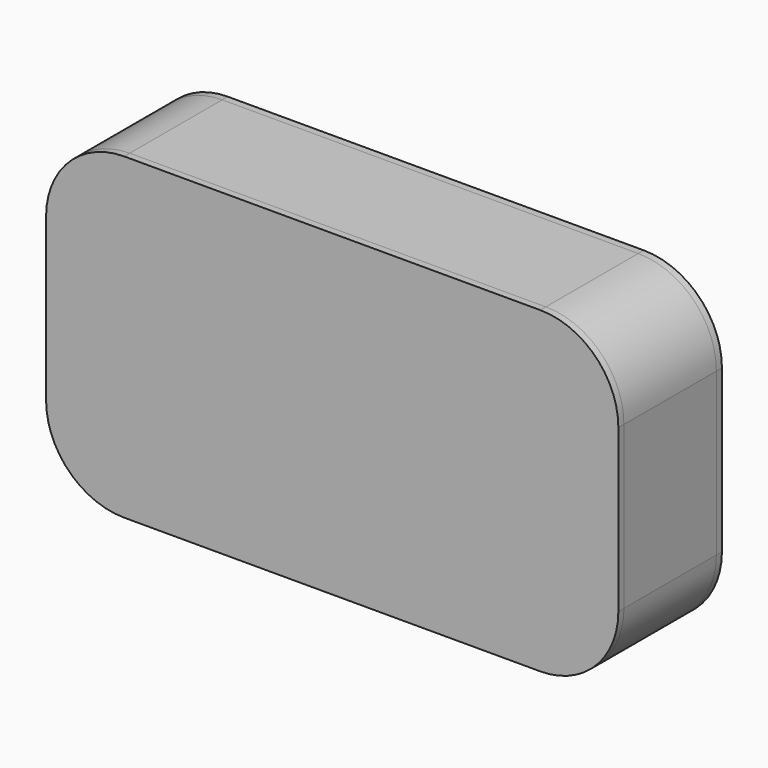
from build123d import *

# Parameters (mm, degrees)
F0_W     = 180
F0_H     = 130
F0_W_2   = 174
F0_H_2   = 124
F1_DEPTH = 50
F2_DEPTH = 3
F3_DEPTH = 3
F4_DEPTH = 50
F5_W     = 174
F5_H     = 124
F6_DEPTH = 3
F7_DEPTH = 3


with BuildPart() as f1:
    # F0 (on Front) → F1 (new body)
    with BuildSketch(Plane.XZ):
        with BuildLine():
            ThreePointArc((-90, 68), (-113.3345237792, 58.3345237792), (-123, 35))
            Line((-123, 35), (-123, -35))
            ThreePointArc((-123, -35), (-113.3345237792, -58.3345237792), (-90, -68))
            Line((-90, -68), (90, -68))
            ThreePointArc((90, -68), (113.3345237792, -58.3345237792), (123, -35))
            Line((123, -35), (123, 35))
            ThreePointArc((123, 35), (113.3345237792, 58.3345237792), (90, 68))
            Line((90, 68), (-90, 68))
        make_face()
        with BuildLine():
            Line((-90, 65), (90, 65))
            ThreePointArc((90, 65), (111.2132034356, 56.2132034356), (120, 35))
            Line((120, 35), (120, -35))
            ThreePointArc((120, -35), (111.2132034356, -56.2132034356), (90, -65))
            Line((90, -65), (-90, -65))
            ThreePointArc((-90, -65), (-111.2132034356, -56.2132034356), (-120, -35))
            Line((-120, -35), (-120, 35))
            ThreePointArc((-120, 35), (-111.2132034356, 56.2132034356), (-90, 65))
        make_face(mode=Mode.SUBTRACT)
        Rectangle(F0_W, F0_H)
        Rectangle(F0_W_2, F0_H_2, mode=Mode.SUBTRACT)
    extrude(amount=-F1_DEPTH)


with BuildPart() as f2:
    # F0 (on Front) → F2 (new body)
    with BuildSketch(Plane.XZ):
        Rectangle(F0_W_2, F0_H_2)
    extrude(amount=-F2_DEPTH)


with BuildPart() as f2b:
    # F0 (on Front) → F2, piece 2 (new body)
    with BuildSketch(Plane.XZ):
        with BuildLine():
            Line((-90, -65), (-90, 65))
            ThreePointArc((-90, 65), (-111.2132034356, 56.2132034356), (-120, 35))
            Line((-120, 35), (-120, -35))
            ThreePointArc((-120, -35), (-111.2132034356, -56.2132034356), (-90, -65))
        make_face()
    extrude(amount=-F2_DEPTH)


with BuildPart() as f2c:
    # F0 (on Front) → F2, piece 3 (new body)
    with BuildSketch(Plane.XZ):
        with BuildLine():
            ThreePointArc((120, 35), (111.2132034356, 56.2132034356), (90, 65))
            Line((90, 65), (90, -65))
            ThreePointArc((90, -65), (111.2132034356, -56.2132034356), (120, -35))
            Line((120, -35), (120, 35))
        make_face()
    extrude(amount=-F2_DEPTH)


with BuildPart() as f3:
    # F0 (on Front) → F3 (new body)
    with BuildSketch(Plane.XZ):
        with BuildLine():
            ThreePointArc((123.8, 35), (113.9002092041, 58.9002092041), (90, 68.8))
            Line((90, 68.8), (-90, 68.8))
            ThreePointArc((-90, 68.8), (-113.9002092041, 58.9002092041), (-123.8, 35))
            Line((-123.8, 35), (-123.8, -35))
            ThreePointArc((-123.8, -35), (-113.9002092041, -58.9002092041), (-90, -68.8))
            Line((-90, -68.8), (90, -68.8))
            ThreePointArc((90, -68.8), (113.9002092041, -58.9002092041), (123.8, -35))
            Line((123.8, -35), (123.8, 35))
        make_face()
        with BuildLine():
            Line((-123, -35), (-123, 35))
            ThreePointArc((-123, 35), (-113.3345237792, 58.3345237792), (-90, 68))
            Line((-90, 68), (90, 68))
            ThreePointArc((90, 68), (113.3345237792, 58.3345237792), (123, 35))
            Line((123, 35), (123, -35))
            ThreePointArc((123, -35), (113.3345237792, -58.3345237792), (90, -68))
            Line((90, -68), (-90, -68))
            ThreePointArc((-90, -68), (-113.3345237792, -58.3345237792), (-123, -35))
        make_face(mode=Mode.SUBTRACT)
        with BuildLine():
            ThreePointArc((-90, 68), (-113.3345237792, 58.3345237792), (-123, 35))
            Line((-123, 35), (-123, -35))
            ThreePointArc((-123, -35), (-113.3345237792, -58.3345237792), (-90, -68))
            Line((-90, -68), (90, -68))
            ThreePointArc((90, -68), (113.3345237792, -58.3345237792), (123, -35))
            Line((123, -35), (123, 35))
            ThreePointArc((123, 35), (113.3345237792, 58.3345237792), (90, 68))
            Line((90, 68), (-90, 68))
        make_face()
        with BuildLine():
            Line((-90, 65), (90, 65))
            ThreePointArc((90, 65), (111.2132034356, 56.2132034356), (120, 35))
            Line((120, 35), (120, -35))
            ThreePointArc((120, -35), (111.2132034356, -56.2132034356), (90, -65))
            Line((90, -65), (-90, -65))
            ThreePointArc((-90, -65), (-111.2132034356, -56.2132034356), (-120, -35))
            Line((-120, -35), (-120, 35))
            ThreePointArc((-120, 35), (-111.2132034356, 56.2132034356), (-90, 65))
        make_face(mode=Mode.SUBTRACT)
        Rectangle(F0_W, F0_H)
        Rectangle(F0_W_2, F0_H_2, mode=Mode.SUBTRACT)
        Rectangle(F0_W_2, F0_H_2)
        with BuildLine():
            Line((-90, -65), (-90, 65))
            ThreePointArc((-90, 65), (-111.2132034356, 56.2132034356), (-120, 35))
            Line((-120, 35), (-120, -35))
            ThreePointArc((-120, -35), (-111.2132034356, -56.2132034356), (-90, -65))
        make_face()
        with BuildLine():
            ThreePointArc((120, 35), (111.2132034356, 56.2132034356), (90, 65))
            Line((90, 65), (90, -65))
            ThreePointArc((90, -65), (111.2132034356, -56.2132034356), (120, -35))
            Line((120, -35), (120, 35))
        make_face()
    extrude(amount=F3_DEPTH)


with BuildPart() as f4:
    # F0 (on Front) → F4 (new body)
    with BuildSketch(Plane.XZ):
        with BuildLine():
            ThreePointArc((123.8, 35), (113.9002092041, 58.9002092041), (90, 68.8))
            Line((90, 68.8), (-90, 68.8))
            ThreePointArc((-90, 68.8), (-113.9002092041, 58.9002092041), (-123.8, 35))
            Line((-123.8, 35), (-123.8, -35))
            ThreePointArc((-123.8, -35), (-113.9002092041, -58.9002092041), (-90, -68.8))
            Line((-90, -68.8), (90, -68.8))
            ThreePointArc((90, -68.8), (113.9002092041, -58.9002092041), (123.8, -35))
            Line((123.8, -35), (123.8, 35))
        make_face()
        with BuildLine():
            Line((-123, -35), (-123, 35))
            ThreePointArc((-123, 35), (-113.3345237792, 58.3345237792), (-90, 68))
            Line((-90, 68), (90, 68))
            ThreePointArc((90, 68), (113.3345237792, 58.3345237792), (123, 35))
            Line((123, 35), (123, -35))
            ThreePointArc((123, -35), (113.3345237792, -58.3345237792), (90, -68))
            Line((90, -68), (-90, -68))
            ThreePointArc((-90, -68), (-113.3345237792, -58.3345237792), (-123, -35))
        make_face(mode=Mode.SUBTRACT)
    extrude(amount=-F4_DEPTH)


with BuildPart() as f6:
    # F5 (on face) → F6 (new body)
    with BuildSketch(Plane(origin=(0, 50, 0), x_dir=(-1, 0, 0), z_dir=(0, 1, 0))):
        Rectangle(F5_W, F5_H)
    extrude(amount=-F6_DEPTH)


with BuildPart() as f6b:
    # F5 (on face) → F6, piece 2 (new body)
    with BuildSketch(Plane(origin=(0, 50, 0), x_dir=(-1, 0, 0), z_dir=(0, 1, 0))):
        with BuildLine():
            ThreePointArc((120, 35), (111.2132034356, 56.2132034356), (90, 65))
            Line((90, 65), (90, -65))
            ThreePointArc((90, -65), (111.2132034356, -56.2132034356), (120, -35))
            Line((120, -35), (120, 35))
        make_face()
    extrude(amount=-F6_DEPTH)


with BuildPart() as f6c:
    # F5 (on face) → F6, piece 3 (new body)
    with BuildSketch(Plane(origin=(0, 50, 0), x_dir=(-1, 0, 0), z_dir=(0, 1, 0))):
        with BuildLine():
            ThreePointArc((-90, 65), (-111.2132034356, 56.2132034356), (-120, 35))
            Line((-120, 35), (-120, -35))
            ThreePointArc((-120, -35), (-111.2132034356, -56.2132034356), (-90, -65))
            Line((-90, -65), (-90, 65))
        make_face()
    extrude(amount=-F6_DEPTH)


with BuildPart() as f7:
    # F5 (on face) + F4_face (on face) → F7 (new body)
    with BuildSketch(Plane(origin=(0, 50, 0), x_dir=(-1, 0, 0), z_dir=(0, 1, 0))):
        with BuildLine():
            Line((123, -35), (123, 35))
            ThreePointArc((123, 35), (113.3345237792, 58.3345237792), (90, 68))
            Line((90, 68), (-90, 68))
            ThreePointArc((-90, 68), (-113.3345237792, 58.3345237792), (-123, 35))
            Line((-123, 35), (-123, -35))
            ThreePointArc((-123, -35), (-113.3345237792, -58.3345237792), (-90, -68))
            Line((-90, -68), (90, -68))
            ThreePointArc((90, -68), (113.3345237792, -58.3345237792), (123, -35))
        make_face()
        with BuildLine():
            Line((-120, -35), (-120, 35))
            ThreePointArc((-120, 35), (-111.2132034356, 56.2132034356), (-90, 65))
            Line((-90, 65), (-90, -65))
            ThreePointArc((-90, -65), (-111.2132034356, -56.2132034356), (-120, -35))
        make_face(mode=Mode.SUBTRACT)
        Rectangle(F5_W, F5_H, mode=Mode.SUBTRACT)
        with BuildLine():
            Line((90, -65), (90, 65))
            ThreePointArc((90, 65), (111.2132034356, 56.2132034356), (120, 35))
            Line((120, 35), (120, -35))
            ThreePointArc((120, -35), (111.2132034356, -56.2132034356), (90, -65))
        make_face(mode=Mode.SUBTRACT)
        Rectangle(F5_W, F5_H)
        with BuildLine():
            ThreePointArc((-90, 65), (-111.2132034356, 56.2132034356), (-120, 35))
            Line((-120, 35), (-120, -35))
            ThreePointArc((-120, -35), (-111.2132034356, -56.2132034356), (-90, -65))
            Line((-90, -65), (-90, 65))
        make_face()
        with BuildLine():
            ThreePointArc((120, 35), (111.2132034356, 56.2132034356), (90, 65))
            Line((90, 65), (90, -65))
            ThreePointArc((90, -65), (111.2132034356, -56.2132034356), (120, -35))
            Line((120, -35), (120, 35))
        make_face()
    with BuildSketch(Plane(origin=(0, 50, 0), x_dir=(1, 0, 0), z_dir=(0, 1, 0))):
        with BuildLine():
            ThreePointArc((90, -68.8), (113.9002092041, -58.9002092041), (123.8, -35))
            Line((123.8, -35), (123.8, 35))
            ThreePointArc((123.8, 35), (113.9002092041, 58.9002092041), (90, 68.8))
            Line((90, 68.8), (-90, 68.8))
            ThreePointArc((-90, 68.8), (-113.9002092041, 58.9002092041), (-123.8, 35))
            Line((-123.8, 35), (-123.8, -35))
            ThreePointArc((-123.8, -35), (-113.9002092041, -58.9002092041), (-90, -68.8))
            Line((-90, -68.8), (90, -68.8))
        make_face()
        with BuildLine():
            Line((-123, -35), (-123, 35))
            ThreePointArc((-123, 35), (-113.3345237792, 58.3345237792), (-90, 68))
            Line((-90, 68), (90, 68))
            ThreePointArc((90, 68), (113.3345237792, 58.3345237792), (123, 35))
            Line((123, 35), (123, -35))
            ThreePointArc((123, -35), (113.3345237792, -58.3345237792), (90, -68))
            Line((90, -68), (-90, -68))
            ThreePointArc((-90, -68), (-113.3345237792, -58.3345237792), (-123, -35))
        make_face(mode=Mode.SUBTRACT)
    extrude(amount=F7_DEPTH)


solid = Compound([f1.part, f2.part, f2b.part, f2c.part, f3.part, f4.part, f6.part, f6b.part, f6c.part, f7.part])
